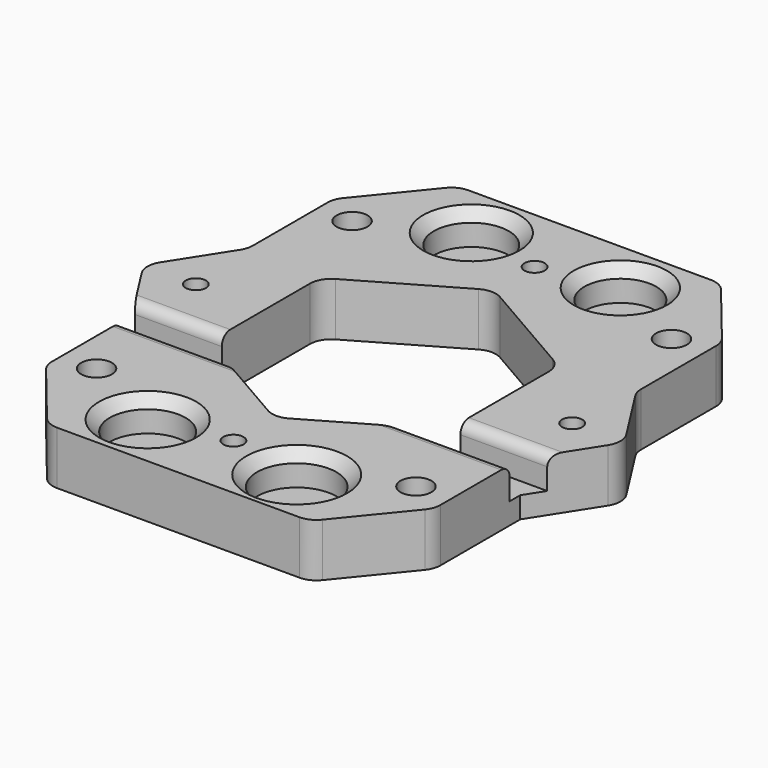
from build123d import *

# Parameters (mm, degrees)
SKETCH_R        = 1.45
SKETCH_R_2      = 0.95
PAD_DEPTH       = 5
SKETCH001_R     = 3.562029
SKETCH001_R_2   = 3.731918
SKETCH001_R_3   = 3.520265
SKETCH001_R_4   = 3.380429
POCKET_DEPTH    = 3
SKETCH002_W     = 46.716316
SKETCH002_H     = 3
POCKET001_DEPTH = 3
FILLET_R        = 2
FILLET001_R     = 2
FILLET002_R     = 1
CHAMFER_SIZE    = 1


with BuildPart() as part:
    # Sketch → Pad (new body)
    with BuildSketch(Plane.XY):
        Polygon((-22.586229, 0), (-18.23987, 6.804103), (-18.23987, 16.887657), (-12.328823, 24.143423), (0, 24.143423), (12.328823, 24.143423), (18.23987, 16.887657), (18.23987, 6.804103), (22.586229, 0), (18.23987, -6.804103), (18.23987, -16.887657), (12.328823, -24.148312), (0.02983, -24.148312), (-12.328823, -24.148312), (-18.23987, -16.887657), (-18.23987, -6.804103), align=None)
        with Locations((-15, 15)):
            Circle(SKETCH_R, mode=Mode.SUBTRACT)
        with Locations((0, 17.67767)):
            Circle(SKETCH_R_2, mode=Mode.SUBTRACT)
        with Locations((15, 15)):
            Circle(SKETCH_R, mode=Mode.SUBTRACT)
        with Locations((15, -15)):
            Circle(SKETCH_R, mode=Mode.SUBTRACT)
        with Locations((-15, -15)):
            Circle(SKETCH_R, mode=Mode.SUBTRACT)
        with Locations((0, -17.67767)):
            Circle(SKETCH_R_2, mode=Mode.SUBTRACT)
        with Locations((-17.67767, 0)):
            Circle(SKETCH_R_2, mode=Mode.SUBTRACT)
        with Locations((17.67767, 0)):
            Circle(SKETCH_R_2, mode=Mode.SUBTRACT)
        Polygon((11.207193, -6.470476), (11.207193, 6.470476), (0, 12.940952), (-11.207193, 6.470476), (-11.207193, -6.470476), (0, -12.940952), align=None, mode=Mode.SUBTRACT)
    extrude(amount=PAD_DEPTH)

    # Sketch001 (on Face32 of Pad) → Pocket (cut)
    with BuildSketch(Plane.XY.offset(5)):
        with Locations((-7, -19)):
            Circle(SKETCH001_R)
        with Locations((7, -19)):
            Circle(SKETCH001_R_2)
        with Locations((-7, 19)):
            Circle(SKETCH001_R_3)
        with Locations((7, 19)):
            Circle(SKETCH001_R_4)
    extrude(amount=-POCKET_DEPTH, mode=Mode.SUBTRACT)

    # Sketch002 (on Face5 of Pocket) → Pocket001 (cut)
    with BuildSketch(Plane.XY.offset(5)):
        with Locations((0.200285, -6.541265)):
            Rectangle(SKETCH002_W, SKETCH002_H)
    extrude(amount=-POCKET001_DEPTH, mode=Mode.SUBTRACT)

    # Fillet
    fillet_edges = [part.edges().sort_by_distance(p)[0] for p in [
        (22.586229, 0, 2.5),
        (-22.586229, 0, 2.5),
        (18.23987, -16.887657, 2.5),
        (12.328823, -24.148312, 2.5),
        (-12.328823, -24.148312, 2.5),
        (-18.23987, -16.887657, 2.5),
        (-18.23987, 16.887657, 2.5),
        (-18.23987, 6.804103, 2.5),
        (-18.23987, -6.804103, 1),
        (-12.328823, 24.143423, 2.5),
        (12.328823, 24.143423, 2.5),
        (18.23987, 16.887657, 2.5),
        (18.23987, 6.804103, 2.5),
    ]]
    fillet(fillet_edges, radius=FILLET_R)

    # Fillet001
    fillet001_edges = [part.edges().sort_by_distance(p)[0] for p in [
        (11.207193, -6.470476, 1),
        (0, -12.940952, 2.5),
        (11.207193, 6.470476, 2.5),
        (0, 12.940952, 2.5),
        (-11.207193, 6.470476, 2.5),
        (-11.207193, -6.470476, 1),
    ]]
    fillet(fillet001_edges, radius=FILLET001_R)

    # Fillet002
    fillet002_edges = [part.edges().sort_by_distance(p)[0] for p in [
        (15.286569, -5.041265, 5),
        (13.363188, -8.041265, 5),
        (-15.286569, -5.041265, 5),
        (-13.363188, -8.041265, 5),
    ]]
    fillet(fillet002_edges, radius=FILLET002_R)

    # Chamfer
    chamfer_edges = [part.edges().sort_by_distance(p)[0] for p in [
        (3.619571, 19, 5),
        (-10.520265, 19, 5),
        (3.268082, -19, 5),
        (-10.562029, -19, 5),
    ]]
    chamfer(chamfer_edges, length=CHAMFER_SIZE)


solid = part.part
